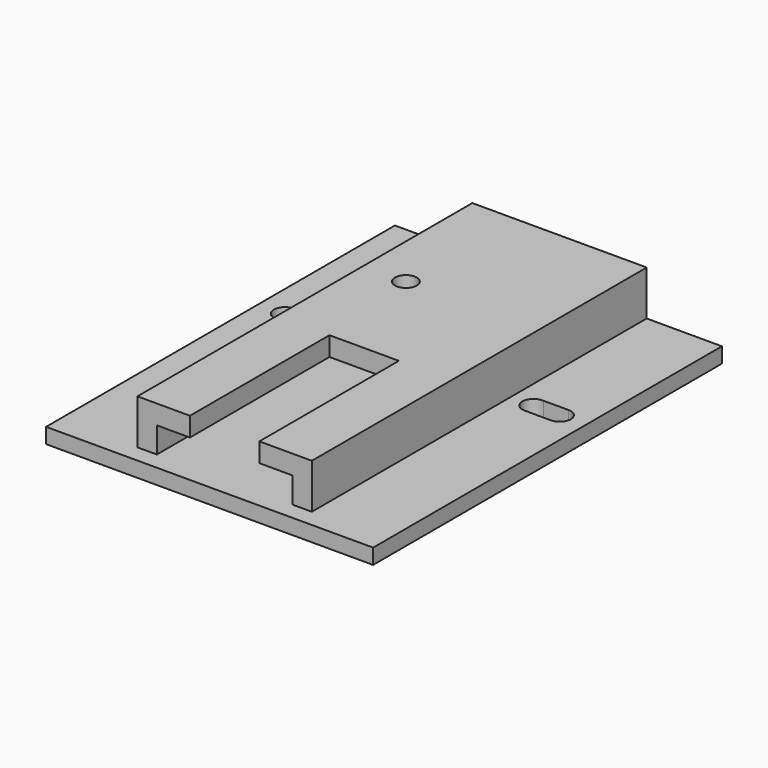
from build123d import *

# Parameters (mm, degrees)
F0_W      = 75
F0_H      = 100
F1_DEPTH  = 3.5
F3_DEPTH  = 3.5
F4_W      = 40
F4_H      = 40.000004
F5_DEPTH  = 10.3
F7_DEPTH  = 40
F9_R      = 2.5
F10_DEPTH = 5.5
F11_W     = 40
F11_H     = 10.3
F12_DEPTH = 16
F8_W      = 31.1
F8_H      = 5.9
F13_DEPTH = 56.000004


with BuildPart() as f1:
    # F0 (on Top) → F1 (new body)
    with BuildSketch(Plane.XY):
        Rectangle(F0_W, F0_H)
    extrude(amount=F1_DEPTH)

    # F2 (on face) → F3 (cut, through all)
    with BuildSketch(Plane.XY.offset(3.5)):
        with BuildLine():
            Line((25.5, 8.45), (31.5, 8.45))
            ThreePointArc((31.5, 8.45), (34.05, 11.001591), (31.496817, 13.549998))
            Line((31.496817, 13.549998), (25.692115, 13.542753))
            ThreePointArc((25.692115, 13.542753), (22.951812, 11.096126), (25.5, 8.45))
        make_face()
        with BuildLine():
            ThreePointArc((-25.5, 8.45), (-22.951812, 11.096126), (-25.692115, 13.542753))
            Line((-25.692115, 13.542753), (-31.496817, 13.549998))
            ThreePointArc((-31.496817, 13.549998), (-34.05, 11.001591), (-31.5, 8.45))
            Line((-31.5, 8.45), (-25.5, 8.45))
        make_face()
    extrude(amount=-F3_DEPTH, mode=Mode.SUBTRACT)

    # F4 (on face) → F5 (join)
    with BuildSketch(Plane.XY.offset(3.5)):
        with Locations((0.25, 14.000002)):
            Rectangle(F4_W, F4_H)
    extrude(amount=F5_DEPTH)

    # F6 (on face) → F7 (join)
    with BuildSketch(Plane.XZ.offset(6)):
        Polygon((-7.71, 13.8), (-19.75, 13.8), (-19.75, 3.5), (-15.3, 3.5), (-15.3, 9.4), (-7.71, 9.4), align=None)
        Polygon((20.25, 3.5), (20.25, 13.8), (8.21, 13.8), (8.21, 9.4), (15.8, 9.4), (15.8, 3.5), align=None)
    extrude(amount=F7_DEPTH)

    # F9 (on face) → F10 (cut)
    with BuildSketch(Plane.XY.offset(13.8)):
        with Locations((-10.025, 18.8)):
            Circle(F9_R)
    extrude(amount=-F10_DEPTH, mode=Mode.SUBTRACT)

    # F11 (on face) → F12 (join)
    with BuildSketch(Plane(origin=(0, 34.000004, 0), x_dir=(-1, 0, 0), z_dir=(0, 1, 0))):
        with Locations((-0.25, 8.65)):
            Rectangle(F11_W, F11_H)
    extrude(amount=F12_DEPTH)

    # F8 (on face) → F13 (cut, through all)
    with BuildSketch(Plane.XZ.offset(6)):
        with Locations((0.25, 6.45)):
            Rectangle(F8_W, F8_H)
    extrude(amount=-F13_DEPTH, mode=Mode.SUBTRACT)


solid = f1.part
